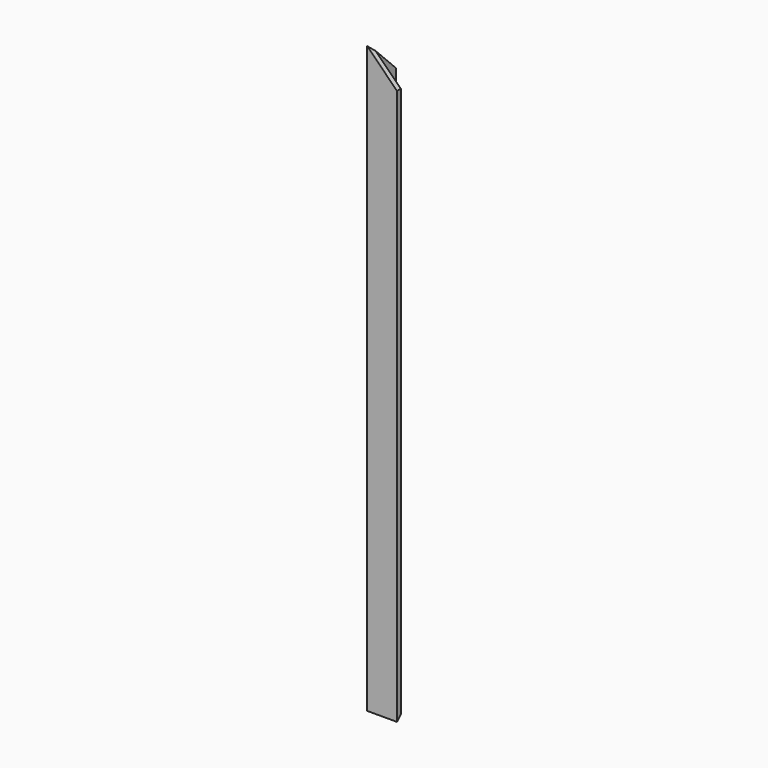
from build123d import *

# Parameters (mm, degrees)
F1_DEPTH = 982.5
F3_DEPTH = 8
F5_DEPTH = 8
F7_DEPTH = 50.001


with BuildPart() as f1:
    # F0 (on Top) → F1 (new body)
    with BuildSketch(Plane.XY):
        Polygon((0, 50), (0, 0), (50, 0), (50, 8), (8, 8), (8, 50), align=None)
    extrude(amount=F1_DEPTH)

    # F2 (on face) → F3 (cut, through all)
    with BuildSketch(Plane.XZ):
        Polygon((50, 982.5), (0, 982.5), (50, 932.5), align=None)
    extrude(amount=-F3_DEPTH, mode=Mode.SUBTRACT)

    # F4 (on face) → F5 (cut, through all)
    with BuildSketch(Plane(origin=(0, 0, 0), x_dir=(0, -1, 0), z_dir=(-1, 0, 0))):
        Polygon((-50, 932.5), (0, 982.5), (-8, 982.5), (-50, 982.5), align=None)
    extrude(amount=-F5_DEPTH, mode=Mode.SUBTRACT)

    # F6 (on face) → F7 (cut, through all)
    with BuildSketch(Plane(origin=(0, 0, 0), x_dir=(0, -1, 0), z_dir=(-1, 0, 0))):
        Polygon((-50, 0), (0, 0), (-50, 50), align=None)
    extrude(amount=-F7_DEPTH, mode=Mode.SUBTRACT)


solid = f1.part
